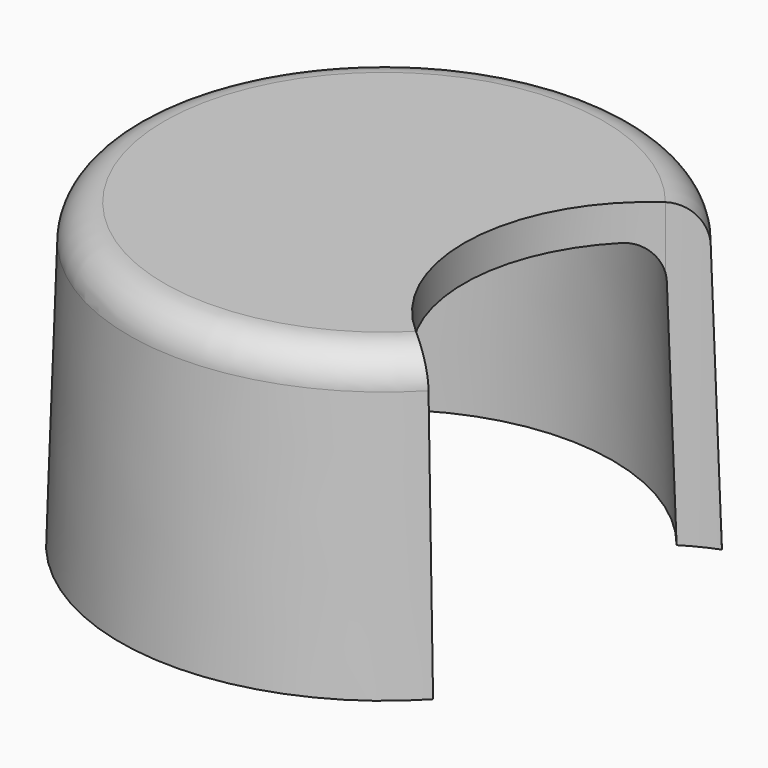
from build123d import *

# Parameters (mm, degrees)
F3_DEPTH = 12


with BuildPart() as f1:
    # F0 (on Front) → F1 (revolve)
    with BuildSketch(Plane.XZ):
        with BuildLine():
            Line((-4.9099648833, 0), (-4.6944506121, 6.5329707735))
            ThreePointArc((-4.6944506121, 6.5329707735), (-4.3903464464, 7.2186691775), (-3.6949942959, 7.5))
            Line((-3.6949942959, 7.5), (1.5312969158, 7.5))
            Line((1.5312969158, 7.5), (1.5312969158, 8.5))
            Line((1.5312969158, 8.5), (-4.6625495664, 8.5))
            ThreePointArc((-4.6625495664, 8.5), (-5.357901717, 8.2186691775), (-5.6620058827, 7.5329707735))
            Line((-5.6620058827, 7.5329707735), (-5.9105088628, 0))
            Line((-5.9105088628, 0), (-4.9099648833, 0))
        make_face()
    revolve(axis=Axis((1.5312969158, 0, 4.25), (0, 0, 1)))

    # F2 (on face) → F3 (cut)
    with BuildSketch(Plane.XY.offset(8.5)):
        with BuildLine():
            ThreePointArc((7.7251433981, 0), (7.3751996805, 2.0524460342), (6.364911195, 3.8729713717))
            ThreePointArc((6.364911195, 3.8729713717), (4.1295081061, -0.1391277666), (5.923681122, -4.3670007135))
            ThreePointArc((5.923681122, -4.3670007135), (7.257093267, -2.3619886517), (7.7251433981, 0))
        make_face()
        with BuildLine():
            Line((11.2427216341, -5.2909748964), (8.4492582828, 4.7305878252))
            ThreePointArc((8.4492582828, 4.7305878252), (7.360311783, 4.4154563754), (6.364911195, 3.8729713717))
            ThreePointArc((6.364911195, 3.8729713717), (7.3751996805, 2.0524460342), (7.7251433981, 0))
            ThreePointArc((7.7251433981, 0), (7.257093267, -2.3619886517), (5.923681122, -4.3670007135))
            ThreePointArc((5.923681122, -4.3670007135), (8.4546870483, -5.5688060156), (11.2427216341, -5.2909748964))
        make_face()
    extrude(amount=-F3_DEPTH, mode=Mode.SUBTRACT)


solid = f1.part
